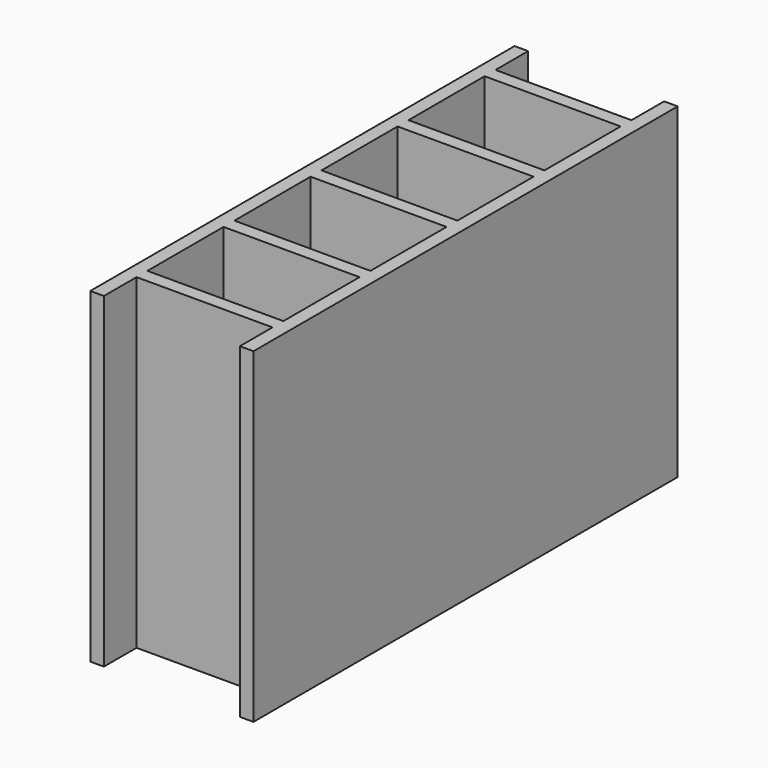
from build123d import *

# Parameters (mm, degrees)
F1_DEPTH = 609.6
F2_W     = 25.4
F2_H     = 76.2
F2_H_2   = 838.2
F3_DEPTH = 609.6


with BuildPart() as f1:
    # F0 (on Top) → F1 (new body)
    with BuildSketch(Plane.XY):
        Polygon((304.8, 838.2), (0, 838.2), (0, 419.1), (0, 0), (304.8, 0), (304.8, 25.4), (25.4, 25.4), (25.4, 203.2), (304.8, 203.2), (304.8, 215.9), (304.8, 228.6), (25.4, 228.6), (25.4, 406.4), (304.8, 406.4), (304.8, 419.1), (304.8, 431.8), (25.4, 431.8), (25.4, 609.6), (304.8, 609.6), (304.8, 622.3), (304.8, 635), (25.4, 635), (25.4, 812.8), (304.8, 812.8), align=None)
    extrude(amount=-F1_DEPTH)

    # F2 (on face) → F3 (join)
    with BuildSketch(Plane.XY):
        with Locations((12.7, 876.3)):
            Rectangle(F2_W, F2_H)
        with Locations((12.7, -38.1)):
            Rectangle(F2_W, F2_H)
        with Locations((292.1, 419.1)):
            Rectangle(F2_W, F2_H_2)
        with Locations((292.1, 876.3)):
            Rectangle(F2_W, F2_H)
        with Locations((292.1, -38.1)):
            Rectangle(F2_W, F2_H)
    extrude(amount=-F3_DEPTH)


solid = f1.part
